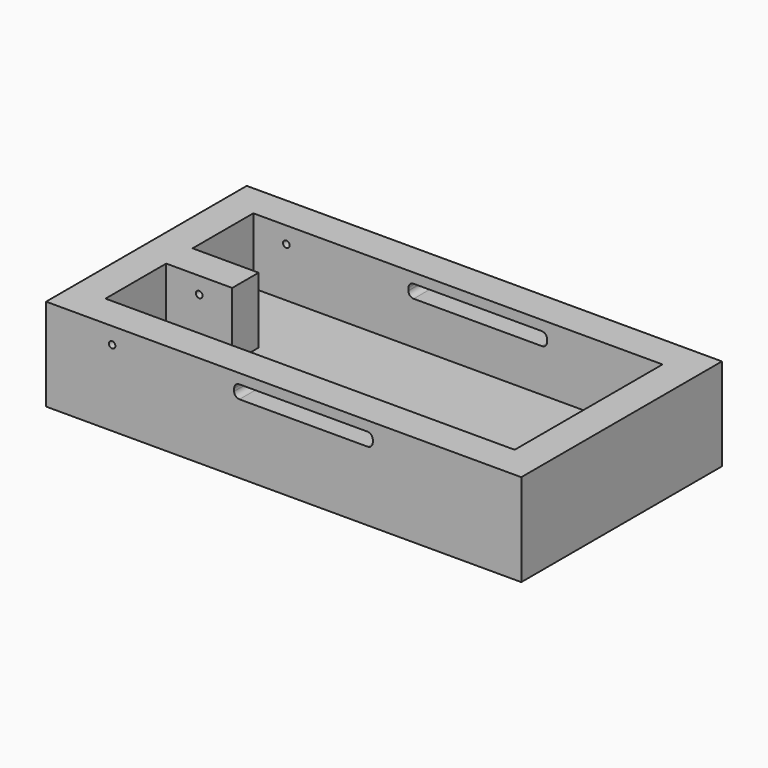
from build123d import *

# Parameters (mm, degrees)
F0_W      = 457.2
F0_H      = 63.5
F1_DEPTH  = 31.75
F2_W      = 31.75
F2_H      = 63.5
F3_DEPTH  = 177.8
F4_W      = 31.75
F4_H      = 63.5
F4_W_2    = 425.45
F5_DEPTH  = 31.75
F6_W      = 31.75
F6_H      = 63.5
F7_DEPTH  = 177.8
F8_W      = 15.875
F8_H      = 63.5
F9_DEPTH  = 63.5
F10_R     = 3.175
F11_DEPTH = 190.5
F12_W     = 457.2
F12_H     = 241.3
F13_DEPTH = 25.4
F15_DEPTH = 254
F16_R     = 5.08


with BuildPart() as f1:
    # F0 (on Front) → F1 (new body)
    with BuildSketch(Plane.XZ):
        with Locations((228.6, 31.75)):
            Rectangle(F0_W, F0_H)
    extrude(amount=F1_DEPTH)

    # F2 (on face) → F3 (join)
    with BuildSketch(Plane.XZ.offset(31.75)):
        with Locations((441.325, 31.75)):
            Rectangle(F2_W, F2_H)
    extrude(amount=F3_DEPTH)

    # F4 (on face) → F5 (join)
    with BuildSketch(Plane.XZ.offset(209.55)):
        with Locations((441.325, 31.75)):
            Rectangle(F4_W, F4_H)
        with Locations((212.725, 31.75)):
            Rectangle(F4_W_2, F4_H)
    extrude(amount=F5_DEPTH)

    # F6 (on face) → F7 (join)
    with BuildSketch(Plane.XZ.offset(31.75)):
        with Locations((15.875, 31.75)):
            Rectangle(F6_W, F6_H)
    extrude(amount=F7_DEPTH)

    # F8 (on face) → F9 (join)
    with BuildSketch(Plane.YZ.offset(31.75)):
        with Locations((-128.5875, 31.75)):
            Rectangle(F8_W, F8_H)
        with Locations((-112.7125, 31.75)):
            Rectangle(F8_W, F8_H)
    extrude(amount=F9_DEPTH)

    # F10 (on face) → F11 (cut, symmetric)
    with BuildSketch(Plane.XZ.offset(136.525)):
        with Locations((63.5, 47.625)):
            Circle(F10_R)
    extrude(amount=F11_DEPTH, both=True, mode=Mode.SUBTRACT)

    # F12 (on face) → F13 (join)
    with BuildSketch(Plane(origin=(0, 0, 0), x_dir=(1, 0, 0), z_dir=(0, 0, -1))):
        with Locations((228.6, 120.65)):
            Rectangle(F12_W, F12_H)
        Polygon((425.45, 209.55), (425.45, 31.75), (31.75, 31.75), (31.75, 104.775), (95.25, 104.775), (95.25, 136.525), (31.75, 136.525), (31.75, 209.55), align=None, mode=Mode.SUBTRACT)
        Polygon((31.75, 31.75), (425.45, 31.75), (425.45, 209.55), (31.75, 209.55), (31.75, 136.525), (95.25, 136.525), (95.25, 104.775), (31.75, 104.775), align=None)
    extrude(amount=F13_DEPTH)

    # F14 (on face) → F15 (cut)
    with BuildSketch(Plane.XZ.offset(241.3)):
        Polygon((314.325, 53.975), (247.65, 53.975), (180.975, 53.975), (180.975, 41.275), (314.325, 41.275), align=None)
    extrude(amount=-F15_DEPTH, mode=Mode.SUBTRACT)

    # F16
    f16_edges = [f1.edges().sort_by_distance(p)[0] for p in [
        (180.975, -225.425, 41.275),
        (180.975, -225.425, 53.975),
        (314.325, -225.425, 41.275),
        (314.325, -225.425, 53.975),
        (180.975, -15.875, 41.275),
        (180.975, -15.875, 53.975),
        (314.325, -15.875, 41.275),
        (314.325, -15.875, 53.975),
    ]]
    fillet(f16_edges, radius=F16_R)


solid = f1.part
